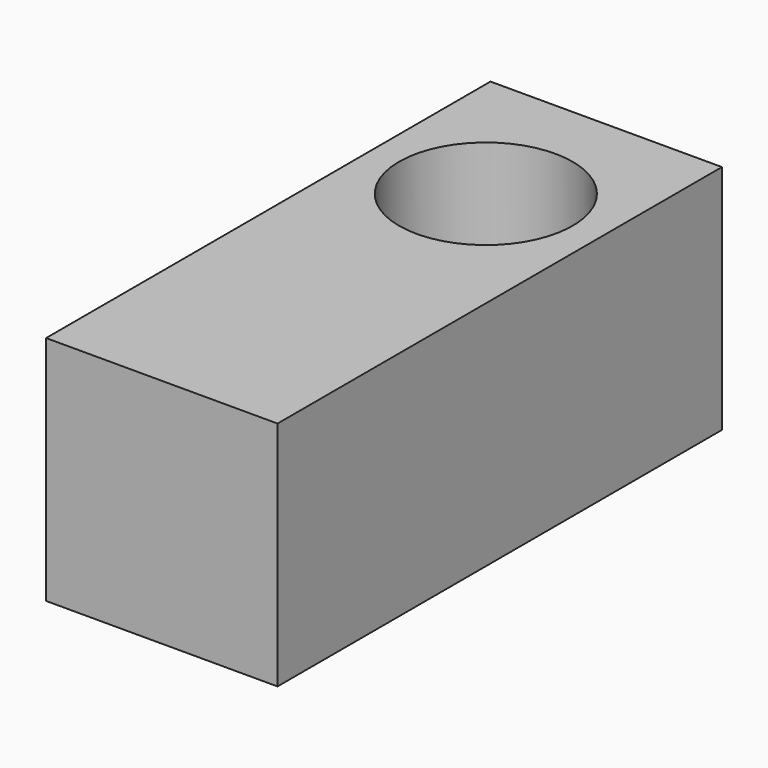
from build123d import *

# Parameters (mm, degrees)
F0_W     = 152.4
F0_H     = 63.5
F1_DEPTH = 31.75
F3_D     = 47.625


with BuildPart() as f1:
    # F0 (on Right) → F1 (new body, symmetric)
    with BuildSketch(Plane.YZ):
        Rectangle(F0_W, F0_H)
    extrude(amount=F1_DEPTH, both=True)

    # F3 (through all)
    with Locations(Plane.XY.offset(31.75)):
        with Locations((0, 34.925)):
            Hole(F3_D / 2)


solid = f1.part
